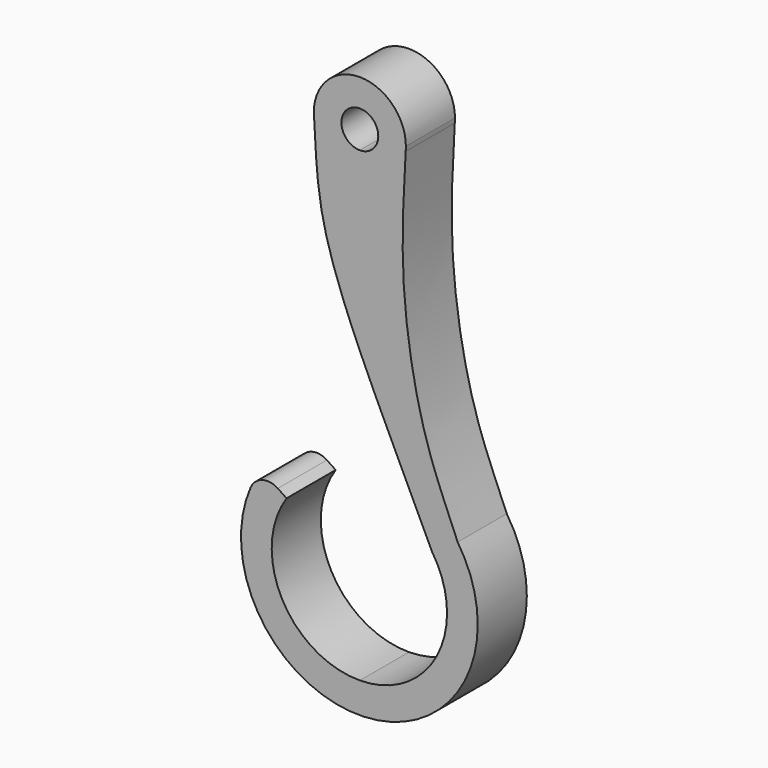
from build123d import *

# Parameters (mm, degrees)
F1_DEPTH = 10
F2_R     = 3


with BuildPart() as f1:
    # F0 (on Front) → F1 (new body)
    with BuildSketch(Plane.XZ):
        with BuildLine():
            ThreePointArc((-7.5, 0), (-7.4844390987, -0.4828782219), (-7.4378209661, -0.963752705))
            add(Edge.make_bspline(
                [(-7.5, 0), (-7.4779188117, -0.3229333494), (-7.4573407841, -0.6440450617), (-7.4378209661, -0.963752705)],
                knots=[0, 0, 0, 0, 0.0221644836, 0.0221644836, 0.0221644836, 0.0221644836], degree=3))
        make_face()
        with BuildLine():
            add(Edge.make_bspline(
                [(7.5, 0), (7.4874130563, -0.2524071136), (7.4745630671, -0.5053211172), (7.4615204152, -0.7587575985)],
                knots=[0, 0, 0, 0, 0.0142473975, 0.0142473975, 0.0142473975, 0.0142473975], degree=3))
            ThreePointArc((7.4615204152, -0.7587575985), (7.4903739264, -0.3798663488), (7.5, 0))
        make_face()
        with BuildLine():
            Line((0, -31.7642609555), (0, -7.5))
            ThreePointArc((0, -7.5), (-4.9508511749, -5.6337441053), (-7.4378209661, -0.963752705))
            add(Edge.make_bspline(
                [(-7.4378209661, -0.963752705), (-7.1102239411, -6.3293392533), (-7.0620929623, -14.4275290561), (-2.2212334754, -26.7161756827), (0, -31.7642609555)],
                knots=[0.0221644836, 0.0221644836, 0.0221644836, 0.0221644836, 0.3941463784, 0.6282633059, 0.6282633059, 0.6282633059, 0.6282633059], degree=3))
        make_face()
        with BuildLine():
            ThreePointArc((7.4615204152, -0.7587575985), (5.0278881258, -5.5651002681), (0, -7.5))
            Line((0, -7.5), (0, -31.7642609555))
            add(Edge.make_bspline(
                [(0, -31.7642609555), (3.5269298881, -39.7797366017), (7.9397083955, -48.555015795), (11.7822502878, -56.7936077714)],
                knots=[0.6282633059, 0.6282633059, 0.6282633059, 0.6282633059, 1, 1, 1, 1], degree=3))
            ThreePointArc((11.7822502878, -56.7936077714), (12.5414876884, -71.4353938492), (0, -79.029432797))
            ThreePointArc((0, -79.029432797), (-12.6592825895, -71.5033527746), (-11.9362901103, -56.7936077714))
            Line((-11.9362901103, -56.7936077714), (-16.0885495334, -54.0081559799))
            ThreePointArc((-16.0885495334, -54.0081559799), (-0.0770199113, -84.0296404967), (15.9345097109, -54.0081559799))
            add(Edge.make_bspline(
                [(7.4615204152, -0.7587575985), (7.1608507936, -6.601177653), (6.3091502692, -19.5335452459), (9.9186136226, -40.8737537897), (14.4167509174, -50.258314563), (15.9345097109, -54.0081559799)],
                knots=[0.0142473975, 0.0142473975, 0.0142473975, 0.0142473975, 0.3426897776, 0.7082802878, 1, 1, 1, 1], degree=3))
        make_face()
        with BuildLine():
            ThreePointArc((-7.4378209661, -0.963752705), (-4.9508511749, -5.6337441053), (0, -7.5))
            ThreePointArc((0, -7.5), (5.0278881258, -5.5651002681), (7.4615204152, -0.7587575985))
            add(Edge.make_bspline(
                [(7.5, 0), (7.4874130563, -0.2524071136), (7.4745630671, -0.5053211172), (7.4615204152, -0.7587575985)],
                knots=[0, 0, 0, 0, 0.0142473975, 0.0142473975, 0.0142473975, 0.0142473975], degree=3))
            ThreePointArc((7.5, 0), (0, 7.5), (-7.5, 0))
            add(Edge.make_bspline(
                [(-7.5, 0), (-7.4779188117, -0.3229333494), (-7.4573407841, -0.6440450617), (-7.4378209661, -0.963752705)],
                knots=[0, 0, 0, 0, 0.0221644836, 0.0221644836, 0.0221644836, 0.0221644836], degree=3))
        make_face()
        with BuildLine():
            ThreePointArc((0, -3), (-2.1213203436, 2.1213203436), (3, 0))
            ThreePointArc((3, 0), (2.1213203436, -2.1213203436), (0, -3))
        make_face(mode=Mode.SUBTRACT)
    extrude(amount=F1_DEPTH)

    # F2
    f2_edges = [f1.edges().sort_by_distance(p)[0] for p in [
        (-16.08855, -5, -54.008156),
    ]]
    fillet(f2_edges, radius=F2_R)


solid = f1.part
